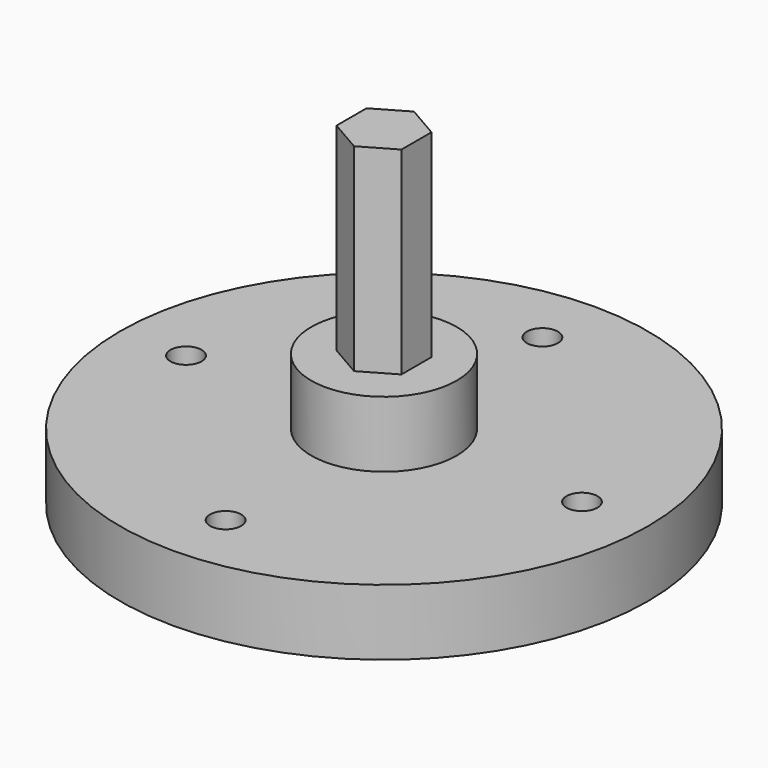
from build123d import *

# Parameters (mm, degrees)
F1_DEPTH = 25.4
F2_R     = 25.4
F3_DEPTH = 6.35
F4_R     = 7
F5_DEPTH = 6.35
F6_R     = 1.4986
F7_DEPTH = 25.4


with BuildPart() as f1:
    # F0 (on Top) → F1 (new body)
    with BuildSketch(Plane.XY):
        Polygon((3.125, -1.80422), (3.125, 1.80422), (0, 3.608439), (-3.125, 1.80422), (-3.125, -1.80422), (0, -3.608439), align=None)
    extrude(amount=F1_DEPTH)


with BuildPart() as f3:
    # F2 (on face) → F3 (new body)
    with BuildSketch(Plane(origin=(0, 0, 0), x_dir=(1, 0, 0), z_dir=(0, 0, -1))):
        Circle(F2_R)
        Polygon((0, 3.608439), (3.125, 1.80422), (3.125, -1.80422), (0, -3.608439), (-3.125, -1.80422), (-3.125, 1.80422), align=None, mode=Mode.SUBTRACT)
    extrude(amount=F3_DEPTH)

    # F6 (on face) → F7 (cut)
    with BuildSketch(Plane.XY):
        with Locations((0, 19.05)):
            Circle(F6_R)
        with Locations((19.05, 0)):
            Circle(F6_R)
        with Locations((0, -19.05)):
            Circle(F6_R)
        with Locations((-19.05, 0)):
            Circle(F6_R)
    extrude(amount=-F7_DEPTH, mode=Mode.SUBTRACT)


with BuildPart() as f5:
    # F4 (on face) → F5 (new body)
    with BuildSketch(Plane.XY):
        Circle(F4_R)
    extrude(amount=F5_DEPTH)


solid = Compound([f1.part, f3.part, f5.part])
